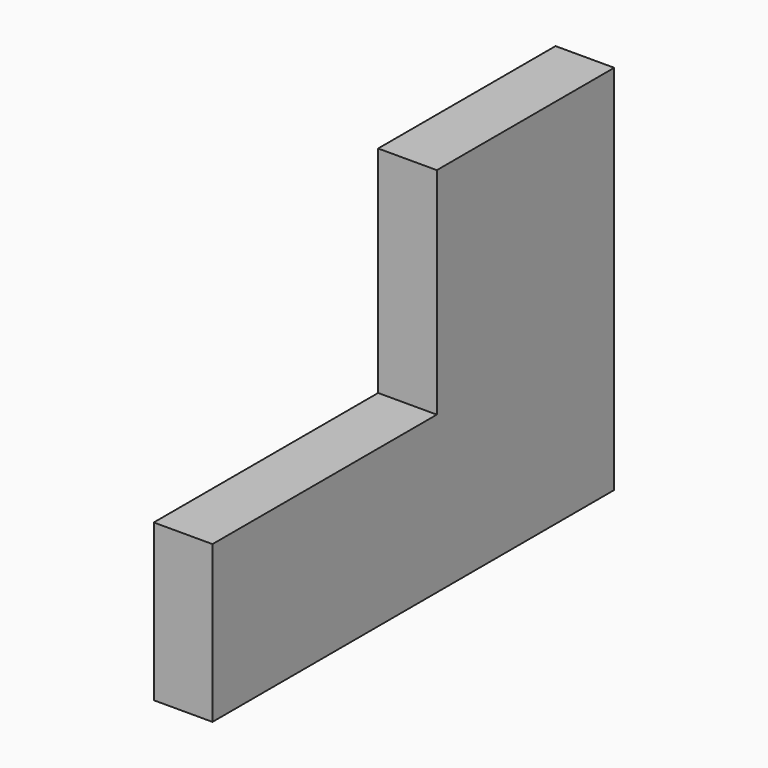
from build123d import *

# Parameters (mm, degrees)
F0_W     = 273.05
F0_H     = 228.6
F1_DEPTH = 19.05
F3_DEPTH = 19.05
F5_DEPTH = 19.05


with BuildPart() as f1:
    # F0 (on Right) → F1 (new body)
    with BuildSketch(Plane.YZ):
        with Locations((136.525, 114.3)):
            Rectangle(F0_W, F0_H)
    extrude(amount=-F1_DEPTH)

    # F2 (on face) → F3 (cut, through all)
    with BuildSketch(Plane.YZ):
        Polygon((182.0333333333, 139.7), (273.05, 139.7), (273.05, 228.6), (0, 228.6), (0, 0), (91.0166666667, 0), (91.0166666667, 69.85), (182.0333333333, 69.85), align=None)
    extrude(amount=-F3_DEPTH, mode=Mode.SUBTRACT)

    # F4 (on face) → F5 (cut, through all)
    with BuildSketch(Plane.YZ):
        Polygon((110.0666666667, 0), (110.0666666667, 50.8), (201.0833333333, 50.8), (201.0833333333, 120.65), (273.05, 120.65), (273.05, 139.7), (182.0333333333, 139.7), (182.0333333333, 69.85), (91.0166666667, 69.85), (91.0166666667, 0), align=None)
    extrude(amount=-F5_DEPTH, mode=Mode.SUBTRACT)


solid = f1.part
